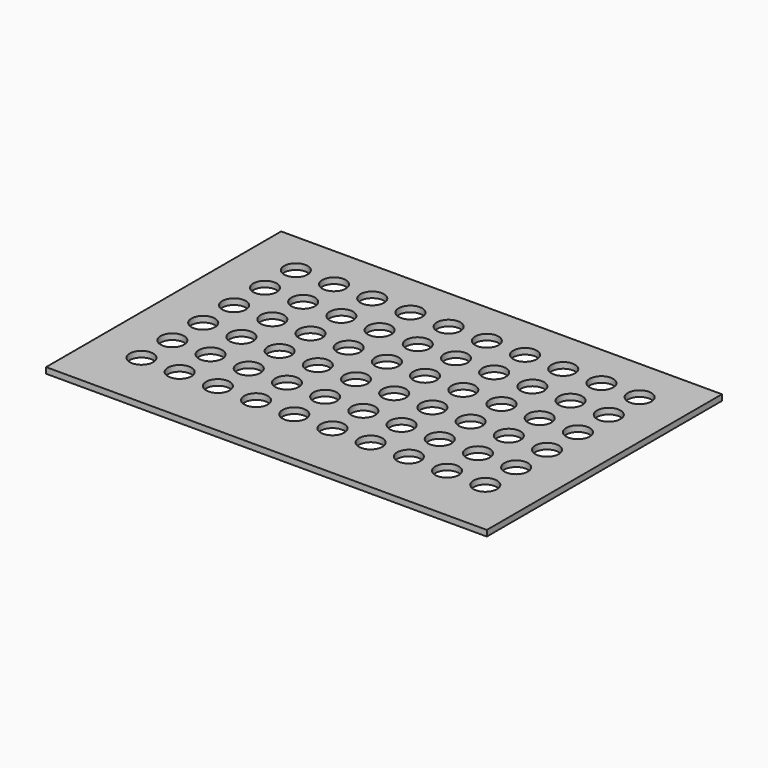
from build123d import *

# Parameters (mm, degrees)
F0_W     = 15
F0_H     = 10
F1_DEPTH = 0.2


with BuildPart() as f1:
    # F0 (on Top) → F1 (new body)
    with BuildSketch(Plane.XY):
        with Locations((7.5, -5)):
            Rectangle(F0_W, F0_H)
        with BuildLine():
            add(Edge.make_bspline(
                [(2.016517, -7.848093), (1.753789, -7.20702), (1.329968, -7.755086), (0.906147, -8.303151), (1.592696, -8.396158), (2.279245, -8.489165), (2.016517, -7.848093)],
                knots=[0, 0, 0, 2.094395, 2.094395, 4.18879, 4.18879, 6.283185, 6.283185, 6.283185], degree=2, weights=[1, 0.5, 1, 0.5, 1, 0.5, 1]))
        make_face(mode=Mode.SUBTRACT)
        with BuildLine():
            add(Edge.make_bspline(
                [(3.316517, -7.848093), (3.053789, -7.20702), (2.629968, -7.755086), (2.206147, -8.303151), (2.892696, -8.396158), (3.579245, -8.489165), (3.316517, -7.848093)],
                knots=[0, 0, 0, 2.094395, 2.094395, 4.18879, 4.18879, 6.283185, 6.283185, 6.283185], degree=2, weights=[1, 0.5, 1, 0.5, 1, 0.5, 1]))
        make_face(mode=Mode.SUBTRACT)
        with BuildLine():
            add(Edge.make_bspline(
                [(4.616517, -7.848093), (4.353789, -7.20702), (3.929968, -7.755086), (3.506147, -8.303151), (4.192696, -8.396158), (4.879245, -8.489165), (4.616517, -7.848093)],
                knots=[0, 0, 0, 2.094395, 2.094395, 4.18879, 4.18879, 6.283185, 6.283185, 6.283185], degree=2, weights=[1, 0.5, 1, 0.5, 1, 0.5, 1]))
        make_face(mode=Mode.SUBTRACT)
        with BuildLine():
            add(Edge.make_bspline(
                [(5.916517, -7.848093), (5.653789, -7.20702), (5.229968, -7.755086), (4.806147, -8.303151), (5.492696, -8.396158), (6.179245, -8.489165), (5.916517, -7.848093)],
                knots=[0, 0, 0, 2.094395, 2.094395, 4.18879, 4.18879, 6.283185, 6.283185, 6.283185], degree=2, weights=[1, 0.5, 1, 0.5, 1, 0.5, 1]))
        make_face(mode=Mode.SUBTRACT)
        with BuildLine():
            add(Edge.make_bspline(
                [(7.216517, -7.848093), (6.953789, -7.20702), (6.529968, -7.755086), (6.106147, -8.303151), (6.792696, -8.396158), (7.479245, -8.489165), (7.216517, -7.848093)],
                knots=[0, 0, 0, 2.094395, 2.094395, 4.18879, 4.18879, 6.283185, 6.283185, 6.283185], degree=2, weights=[1, 0.5, 1, 0.5, 1, 0.5, 1]))
        make_face(mode=Mode.SUBTRACT)
        with BuildLine():
            add(Edge.make_bspline(
                [(2.027238, -6.548137), (1.76451, -5.907065), (1.340689, -6.45513), (0.916868, -7.003195), (1.603417, -7.096202), (2.289966, -7.189209), (2.027238, -6.548137)],
                knots=[0, 0, 0, 2.094395, 2.094395, 4.18879, 4.18879, 6.283185, 6.283185, 6.283185], degree=2, weights=[1, 0.5, 1, 0.5, 1, 0.5, 1]))
        make_face(mode=Mode.SUBTRACT)
        with BuildLine():
            add(Edge.make_bspline(
                [(3.327238, -6.548137), (3.06451, -5.907065), (2.640689, -6.45513), (2.216868, -7.003195), (2.903417, -7.096202), (3.589966, -7.189209), (3.327238, -6.548137)],
                knots=[0, 0, 0, 2.094395, 2.094395, 4.18879, 4.18879, 6.283185, 6.283185, 6.283185], degree=2, weights=[1, 0.5, 1, 0.5, 1, 0.5, 1]))
        make_face(mode=Mode.SUBTRACT)
        with BuildLine():
            add(Edge.make_bspline(
                [(2.03796, -5.248181), (1.775231, -4.607109), (1.35141, -5.155174), (0.927589, -5.70324), (1.614139, -5.796247), (2.300688, -5.889254), (2.03796, -5.248181)],
                knots=[0, 0, 0, 2.094395, 2.094395, 4.18879, 4.18879, 6.283185, 6.283185, 6.283185], degree=2, weights=[1, 0.5, 1, 0.5, 1, 0.5, 1]))
        make_face(mode=Mode.SUBTRACT)
        with BuildLine():
            add(Edge.make_bspline(
                [(3.33796, -5.248181), (3.075231, -4.607109), (2.65141, -5.155174), (2.227589, -5.70324), (2.914139, -5.796247), (3.600688, -5.889254), (3.33796, -5.248181)],
                knots=[0, 0, 0, 2.094395, 2.094395, 4.18879, 4.18879, 6.283185, 6.283185, 6.283185], degree=2, weights=[1, 0.5, 1, 0.5, 1, 0.5, 1]))
        make_face(mode=Mode.SUBTRACT)
        with BuildLine():
            add(Edge.make_bspline(
                [(4.627238, -6.548137), (4.36451, -5.907065), (3.940689, -6.45513), (3.516868, -7.003195), (4.203417, -7.096202), (4.889966, -7.189209), (4.627238, -6.548137)],
                knots=[0, 0, 0, 2.094395, 2.094395, 4.18879, 4.18879, 6.283185, 6.283185, 6.283185], degree=2, weights=[1, 0.5, 1, 0.5, 1, 0.5, 1]))
        make_face(mode=Mode.SUBTRACT)
        with BuildLine():
            add(Edge.make_bspline(
                [(5.927238, -6.548137), (5.66451, -5.907065), (5.240689, -6.45513), (4.816868, -7.003195), (5.503417, -7.096202), (6.189966, -7.189209), (5.927238, -6.548137)],
                knots=[0, 0, 0, 2.094395, 2.094395, 4.18879, 4.18879, 6.283185, 6.283185, 6.283185], degree=2, weights=[1, 0.5, 1, 0.5, 1, 0.5, 1]))
        make_face(mode=Mode.SUBTRACT)
        with BuildLine():
            add(Edge.make_bspline(
                [(7.227238, -6.548137), (6.96451, -5.907065), (6.540689, -6.45513), (6.116868, -7.003195), (6.803417, -7.096202), (7.489966, -7.189209), (7.227238, -6.548137)],
                knots=[0, 0, 0, 2.094395, 2.094395, 4.18879, 4.18879, 6.283185, 6.283185, 6.283185], degree=2, weights=[1, 0.5, 1, 0.5, 1, 0.5, 1]))
        make_face(mode=Mode.SUBTRACT)
        with BuildLine():
            add(Edge.make_bspline(
                [(4.63796, -5.248181), (4.375231, -4.607109), (3.95141, -5.155174), (3.527589, -5.70324), (4.214139, -5.796247), (4.900688, -5.889254), (4.63796, -5.248181)],
                knots=[0, 0, 0, 2.094395, 2.094395, 4.18879, 4.18879, 6.283185, 6.283185, 6.283185], degree=2, weights=[1, 0.5, 1, 0.5, 1, 0.5, 1]))
        make_face(mode=Mode.SUBTRACT)
        with BuildLine():
            add(Edge.make_bspline(
                [(5.93796, -5.248181), (5.675231, -4.607109), (5.25141, -5.155174), (4.827589, -5.70324), (5.514139, -5.796247), (6.200688, -5.889254), (5.93796, -5.248181)],
                knots=[0, 0, 0, 2.094395, 2.094395, 4.18879, 4.18879, 6.283185, 6.283185, 6.283185], degree=2, weights=[1, 0.5, 1, 0.5, 1, 0.5, 1]))
        make_face(mode=Mode.SUBTRACT)
        with BuildLine():
            add(Edge.make_bspline(
                [(7.23796, -5.248181), (6.975231, -4.607109), (6.55141, -5.155174), (6.127589, -5.70324), (6.814139, -5.796247), (7.500688, -5.889254), (7.23796, -5.248181)],
                knots=[0, 0, 0, 2.094395, 2.094395, 4.18879, 4.18879, 6.283185, 6.283185, 6.283185], degree=2, weights=[1, 0.5, 1, 0.5, 1, 0.5, 1]))
        make_face(mode=Mode.SUBTRACT)
        with BuildLine():
            add(Edge.make_bspline(
                [(8.516517, -7.848093), (8.253789, -7.20702), (7.829968, -7.755086), (7.406147, -8.303151), (8.092696, -8.396158), (8.779245, -8.489165), (8.516517, -7.848093)],
                knots=[0, 0, 0, 2.094395, 2.094395, 4.18879, 4.18879, 6.283185, 6.283185, 6.283185], degree=2, weights=[1, 0.5, 1, 0.5, 1, 0.5, 1]))
        make_face(mode=Mode.SUBTRACT)
        with BuildLine():
            add(Edge.make_bspline(
                [(9.816517, -7.848093), (9.553789, -7.20702), (9.129968, -7.755086), (8.706147, -8.303151), (9.392696, -8.396158), (10.079245, -8.489165), (9.816517, -7.848093)],
                knots=[0, 0, 0, 2.094395, 2.094395, 4.18879, 4.18879, 6.283185, 6.283185, 6.283185], degree=2, weights=[1, 0.5, 1, 0.5, 1, 0.5, 1]))
        make_face(mode=Mode.SUBTRACT)
        with BuildLine():
            add(Edge.make_bspline(
                [(11.116517, -7.848093), (10.853789, -7.20702), (10.429968, -7.755086), (10.006147, -8.303151), (10.692696, -8.396158), (11.379245, -8.489165), (11.116517, -7.848093)],
                knots=[0, 0, 0, 2.094395, 2.094395, 4.18879, 4.18879, 6.283185, 6.283185, 6.283185], degree=2, weights=[1, 0.5, 1, 0.5, 1, 0.5, 1]))
        make_face(mode=Mode.SUBTRACT)
        with BuildLine():
            add(Edge.make_bspline(
                [(12.416517, -7.848093), (12.153789, -7.20702), (11.729968, -7.755086), (11.306147, -8.303151), (11.992696, -8.396158), (12.679245, -8.489165), (12.416517, -7.848093)],
                knots=[0, 0, 0, 2.094395, 2.094395, 4.18879, 4.18879, 6.283185, 6.283185, 6.283185], degree=2, weights=[1, 0.5, 1, 0.5, 1, 0.5, 1]))
        make_face(mode=Mode.SUBTRACT)
        with BuildLine():
            add(Edge.make_bspline(
                [(13.716517, -7.848093), (13.453789, -7.20702), (13.029968, -7.755086), (12.606147, -8.303151), (13.292696, -8.396158), (13.979245, -8.489165), (13.716517, -7.848093)],
                knots=[0, 0, 0, 2.094395, 2.094395, 4.18879, 4.18879, 6.283185, 6.283185, 6.283185], degree=2, weights=[1, 0.5, 1, 0.5, 1, 0.5, 1]))
        make_face(mode=Mode.SUBTRACT)
        with BuildLine():
            add(Edge.make_bspline(
                [(8.527238, -6.548137), (8.26451, -5.907065), (7.840689, -6.45513), (7.416868, -7.003195), (8.103417, -7.096202), (8.789966, -7.189209), (8.527238, -6.548137)],
                knots=[0, 0, 0, 2.094395, 2.094395, 4.18879, 4.18879, 6.283185, 6.283185, 6.283185], degree=2, weights=[1, 0.5, 1, 0.5, 1, 0.5, 1]))
        make_face(mode=Mode.SUBTRACT)
        with BuildLine():
            add(Edge.make_bspline(
                [(9.827238, -6.548137), (9.56451, -5.907065), (9.140689, -6.45513), (8.716868, -7.003195), (9.403417, -7.096202), (10.089966, -7.189209), (9.827238, -6.548137)],
                knots=[0, 0, 0, 2.094395, 2.094395, 4.18879, 4.18879, 6.283185, 6.283185, 6.283185], degree=2, weights=[1, 0.5, 1, 0.5, 1, 0.5, 1]))
        make_face(mode=Mode.SUBTRACT)
        with BuildLine():
            add(Edge.make_bspline(
                [(11.127238, -6.548137), (10.86451, -5.907065), (10.440689, -6.45513), (10.016868, -7.003195), (10.703417, -7.096202), (11.389966, -7.189209), (11.127238, -6.548137)],
                knots=[0, 0, 0, 2.094395, 2.094395, 4.18879, 4.18879, 6.283185, 6.283185, 6.283185], degree=2, weights=[1, 0.5, 1, 0.5, 1, 0.5, 1]))
        make_face(mode=Mode.SUBTRACT)
        with BuildLine():
            add(Edge.make_bspline(
                [(8.53796, -5.248181), (8.275231, -4.607109), (7.85141, -5.155174), (7.427589, -5.70324), (8.114139, -5.796247), (8.800688, -5.889254), (8.53796, -5.248181)],
                knots=[0, 0, 0, 2.094395, 2.094395, 4.18879, 4.18879, 6.283185, 6.283185, 6.283185], degree=2, weights=[1, 0.5, 1, 0.5, 1, 0.5, 1]))
        make_face(mode=Mode.SUBTRACT)
        with BuildLine():
            add(Edge.make_bspline(
                [(9.83796, -5.248181), (9.575231, -4.607109), (9.15141, -5.155174), (8.727589, -5.70324), (9.414139, -5.796247), (10.100688, -5.889254), (9.83796, -5.248181)],
                knots=[0, 0, 0, 2.094395, 2.094395, 4.18879, 4.18879, 6.283185, 6.283185, 6.283185], degree=2, weights=[1, 0.5, 1, 0.5, 1, 0.5, 1]))
        make_face(mode=Mode.SUBTRACT)
        with BuildLine():
            add(Edge.make_bspline(
                [(11.13796, -5.248181), (10.875231, -4.607109), (10.45141, -5.155174), (10.027589, -5.70324), (10.714139, -5.796247), (11.400688, -5.889254), (11.13796, -5.248181)],
                knots=[0, 0, 0, 2.094395, 2.094395, 4.18879, 4.18879, 6.283185, 6.283185, 6.283185], degree=2, weights=[1, 0.5, 1, 0.5, 1, 0.5, 1]))
        make_face(mode=Mode.SUBTRACT)
        with BuildLine():
            add(Edge.make_bspline(
                [(12.427238, -6.548137), (12.16451, -5.907065), (11.740689, -6.45513), (11.316868, -7.003195), (12.003417, -7.096202), (12.689966, -7.189209), (12.427238, -6.548137)],
                knots=[0, 0, 0, 2.094395, 2.094395, 4.18879, 4.18879, 6.283185, 6.283185, 6.283185], degree=2, weights=[1, 0.5, 1, 0.5, 1, 0.5, 1]))
        make_face(mode=Mode.SUBTRACT)
        with BuildLine():
            add(Edge.make_bspline(
                [(13.727238, -6.548137), (13.46451, -5.907065), (13.040689, -6.45513), (12.616868, -7.003195), (13.303417, -7.096202), (13.989966, -7.189209), (13.727238, -6.548137)],
                knots=[0, 0, 0, 2.094395, 2.094395, 4.18879, 4.18879, 6.283185, 6.283185, 6.283185], degree=2, weights=[1, 0.5, 1, 0.5, 1, 0.5, 1]))
        make_face(mode=Mode.SUBTRACT)
        with BuildLine():
            add(Edge.make_bspline(
                [(12.43796, -5.248181), (12.175231, -4.607109), (11.75141, -5.155174), (11.327589, -5.70324), (12.014139, -5.796247), (12.700688, -5.889254), (12.43796, -5.248181)],
                knots=[0, 0, 0, 2.094395, 2.094395, 4.18879, 4.18879, 6.283185, 6.283185, 6.283185], degree=2, weights=[1, 0.5, 1, 0.5, 1, 0.5, 1]))
        make_face(mode=Mode.SUBTRACT)
        with BuildLine():
            add(Edge.make_bspline(
                [(13.73796, -5.248181), (13.475231, -4.607109), (13.05141, -5.155174), (12.627589, -5.70324), (13.314139, -5.796247), (14.000688, -5.889254), (13.73796, -5.248181)],
                knots=[0, 0, 0, 2.094395, 2.094395, 4.18879, 4.18879, 6.283185, 6.283185, 6.283185], degree=2, weights=[1, 0.5, 1, 0.5, 1, 0.5, 1]))
        make_face(mode=Mode.SUBTRACT)
        with BuildLine():
            add(Edge.make_bspline(
                [(2.048681, -3.948225), (1.785953, -3.307153), (1.362132, -3.855218), (0.938311, -4.403284), (1.62486, -4.496291), (2.311409, -4.589298), (2.048681, -3.948225)],
                knots=[0, 0, 0, 2.094395, 2.094395, 4.18879, 4.18879, 6.283185, 6.283185, 6.283185], degree=2, weights=[1, 0.5, 1, 0.5, 1, 0.5, 1]))
        make_face(mode=Mode.SUBTRACT)
        with BuildLine():
            add(Edge.make_bspline(
                [(3.348681, -3.948225), (3.085953, -3.307153), (2.662132, -3.855218), (2.238311, -4.403284), (2.92486, -4.496291), (3.611409, -4.589298), (3.348681, -3.948225)],
                knots=[0, 0, 0, 2.094395, 2.094395, 4.18879, 4.18879, 6.283185, 6.283185, 6.283185], degree=2, weights=[1, 0.5, 1, 0.5, 1, 0.5, 1]))
        make_face(mode=Mode.SUBTRACT)
        with BuildLine():
            add(Edge.make_bspline(
                [(2.059402, -2.64827), (1.796674, -2.007197), (1.372853, -2.555263), (0.949032, -3.103328), (1.635581, -3.196335), (2.32213, -3.289342), (2.059402, -2.64827)],
                knots=[0, 0, 0, 2.094395, 2.094395, 4.18879, 4.18879, 6.283185, 6.283185, 6.283185], degree=2, weights=[1, 0.5, 1, 0.5, 1, 0.5, 1]))
        make_face(mode=Mode.SUBTRACT)
        with BuildLine():
            add(Edge.make_bspline(
                [(3.359402, -2.64827), (3.096674, -2.007197), (2.672853, -2.555263), (2.249032, -3.103328), (2.935581, -3.196335), (3.62213, -3.289342), (3.359402, -2.64827)],
                knots=[0, 0, 0, 2.094395, 2.094395, 4.18879, 4.18879, 6.283185, 6.283185, 6.283185], degree=2, weights=[1, 0.5, 1, 0.5, 1, 0.5, 1]))
        make_face(mode=Mode.SUBTRACT)
        with BuildLine():
            add(Edge.make_bspline(
                [(4.648681, -3.948225), (4.385953, -3.307153), (3.962132, -3.855218), (3.538311, -4.403284), (4.22486, -4.496291), (4.911409, -4.589298), (4.648681, -3.948225)],
                knots=[0, 0, 0, 2.094395, 2.094395, 4.18879, 4.18879, 6.283185, 6.283185, 6.283185], degree=2, weights=[1, 0.5, 1, 0.5, 1, 0.5, 1]))
        make_face(mode=Mode.SUBTRACT)
        with BuildLine():
            add(Edge.make_bspline(
                [(5.948681, -3.948225), (5.685953, -3.307153), (5.262132, -3.855218), (4.838311, -4.403284), (5.52486, -4.496291), (6.211409, -4.589298), (5.948681, -3.948225)],
                knots=[0, 0, 0, 2.094395, 2.094395, 4.18879, 4.18879, 6.283185, 6.283185, 6.283185], degree=2, weights=[1, 0.5, 1, 0.5, 1, 0.5, 1]))
        make_face(mode=Mode.SUBTRACT)
        with BuildLine():
            add(Edge.make_bspline(
                [(7.248681, -3.948225), (6.985953, -3.307153), (6.562132, -3.855218), (6.138311, -4.403284), (6.82486, -4.496291), (7.511409, -4.589298), (7.248681, -3.948225)],
                knots=[0, 0, 0, 2.094395, 2.094395, 4.18879, 4.18879, 6.283185, 6.283185, 6.283185], degree=2, weights=[1, 0.5, 1, 0.5, 1, 0.5, 1]))
        make_face(mode=Mode.SUBTRACT)
        with BuildLine():
            add(Edge.make_bspline(
                [(4.659402, -2.64827), (4.396674, -2.007197), (3.972853, -2.555263), (3.549032, -3.103328), (4.235581, -3.196335), (4.92213, -3.289342), (4.659402, -2.64827)],
                knots=[0, 0, 0, 2.094395, 2.094395, 4.18879, 4.18879, 6.283185, 6.283185, 6.283185], degree=2, weights=[1, 0.5, 1, 0.5, 1, 0.5, 1]))
        make_face(mode=Mode.SUBTRACT)
        with BuildLine():
            add(Edge.make_bspline(
                [(5.959402, -2.64827), (5.696674, -2.007197), (5.272853, -2.555263), (4.849032, -3.103328), (5.535581, -3.196335), (6.22213, -3.289342), (5.959402, -2.64827)],
                knots=[0, 0, 0, 2.094395, 2.094395, 4.18879, 4.18879, 6.283185, 6.283185, 6.283185], degree=2, weights=[1, 0.5, 1, 0.5, 1, 0.5, 1]))
        make_face(mode=Mode.SUBTRACT)
        with BuildLine():
            add(Edge.make_bspline(
                [(7.259402, -2.64827), (6.996674, -2.007197), (6.572853, -2.555263), (6.149032, -3.103328), (6.835581, -3.196335), (7.52213, -3.289342), (7.259402, -2.64827)],
                knots=[0, 0, 0, 2.094395, 2.094395, 4.18879, 4.18879, 6.283185, 6.283185, 6.283185], degree=2, weights=[1, 0.5, 1, 0.5, 1, 0.5, 1]))
        make_face(mode=Mode.SUBTRACT)
        with BuildLine():
            add(Edge.make_bspline(
                [(2.070123, -1.348314), (1.807395, -0.707241), (1.383574, -1.255307), (0.959753, -1.803372), (1.646302, -1.896379), (2.332852, -1.989386), (2.070123, -1.348314)],
                knots=[0, 0, 0, 2.094395, 2.094395, 4.18879, 4.18879, 6.283185, 6.283185, 6.283185], degree=2, weights=[1, 0.5, 1, 0.5, 1, 0.5, 1]))
        make_face(mode=Mode.SUBTRACT)
        with BuildLine():
            add(Edge.make_bspline(
                [(3.370123, -1.348314), (3.107395, -0.707241), (2.683574, -1.255307), (2.259753, -1.803372), (2.946302, -1.896379), (3.632852, -1.989386), (3.370123, -1.348314)],
                knots=[0, 0, 0, 2.094395, 2.094395, 4.18879, 4.18879, 6.283185, 6.283185, 6.283185], degree=2, weights=[1, 0.5, 1, 0.5, 1, 0.5, 1]))
        make_face(mode=Mode.SUBTRACT)
        with BuildLine():
            add(Edge.make_bspline(
                [(4.670123, -1.348314), (4.407395, -0.707241), (3.983574, -1.255307), (3.559753, -1.803372), (4.246302, -1.896379), (4.932852, -1.989386), (4.670123, -1.348314)],
                knots=[0, 0, 0, 2.094395, 2.094395, 4.18879, 4.18879, 6.283185, 6.283185, 6.283185], degree=2, weights=[1, 0.5, 1, 0.5, 1, 0.5, 1]))
        make_face(mode=Mode.SUBTRACT)
        with BuildLine():
            add(Edge.make_bspline(
                [(5.970123, -1.348314), (5.707395, -0.707241), (5.283574, -1.255307), (4.859753, -1.803372), (5.546302, -1.896379), (6.232852, -1.989386), (5.970123, -1.348314)],
                knots=[0, 0, 0, 2.094395, 2.094395, 4.18879, 4.18879, 6.283185, 6.283185, 6.283185], degree=2, weights=[1, 0.5, 1, 0.5, 1, 0.5, 1]))
        make_face(mode=Mode.SUBTRACT)
        with BuildLine():
            add(Edge.make_bspline(
                [(7.270123, -1.348314), (7.007395, -0.707241), (6.583574, -1.255307), (6.159753, -1.803372), (6.846302, -1.896379), (7.532852, -1.989386), (7.270123, -1.348314)],
                knots=[0, 0, 0, 2.094395, 2.094395, 4.18879, 4.18879, 6.283185, 6.283185, 6.283185], degree=2, weights=[1, 0.5, 1, 0.5, 1, 0.5, 1]))
        make_face(mode=Mode.SUBTRACT)
        with BuildLine():
            add(Edge.make_bspline(
                [(8.548681, -3.948225), (8.285953, -3.307153), (7.862132, -3.855218), (7.438311, -4.403284), (8.12486, -4.496291), (8.811409, -4.589298), (8.548681, -3.948225)],
                knots=[0, 0, 0, 2.094395, 2.094395, 4.18879, 4.18879, 6.283185, 6.283185, 6.283185], degree=2, weights=[1, 0.5, 1, 0.5, 1, 0.5, 1]))
        make_face(mode=Mode.SUBTRACT)
        with BuildLine():
            add(Edge.make_bspline(
                [(9.848681, -3.948225), (9.585953, -3.307153), (9.162132, -3.855218), (8.738311, -4.403284), (9.42486, -4.496291), (10.111409, -4.589298), (9.848681, -3.948225)],
                knots=[0, 0, 0, 2.094395, 2.094395, 4.18879, 4.18879, 6.283185, 6.283185, 6.283185], degree=2, weights=[1, 0.5, 1, 0.5, 1, 0.5, 1]))
        make_face(mode=Mode.SUBTRACT)
        with BuildLine():
            add(Edge.make_bspline(
                [(11.148681, -3.948225), (10.885953, -3.307153), (10.462132, -3.855218), (10.038311, -4.403284), (10.72486, -4.496291), (11.411409, -4.589298), (11.148681, -3.948225)],
                knots=[0, 0, 0, 2.094395, 2.094395, 4.18879, 4.18879, 6.283185, 6.283185, 6.283185], degree=2, weights=[1, 0.5, 1, 0.5, 1, 0.5, 1]))
        make_face(mode=Mode.SUBTRACT)
        with BuildLine():
            add(Edge.make_bspline(
                [(8.559402, -2.64827), (8.296674, -2.007197), (7.872853, -2.555263), (7.449032, -3.103328), (8.135581, -3.196335), (8.82213, -3.289342), (8.559402, -2.64827)],
                knots=[0, 0, 0, 2.094395, 2.094395, 4.18879, 4.18879, 6.283185, 6.283185, 6.283185], degree=2, weights=[1, 0.5, 1, 0.5, 1, 0.5, 1]))
        make_face(mode=Mode.SUBTRACT)
        with BuildLine():
            add(Edge.make_bspline(
                [(9.859402, -2.64827), (9.596674, -2.007197), (9.172853, -2.555263), (8.749032, -3.103328), (9.435581, -3.196335), (10.12213, -3.289342), (9.859402, -2.64827)],
                knots=[0, 0, 0, 2.094395, 2.094395, 4.18879, 4.18879, 6.283185, 6.283185, 6.283185], degree=2, weights=[1, 0.5, 1, 0.5, 1, 0.5, 1]))
        make_face(mode=Mode.SUBTRACT)
        with BuildLine():
            add(Edge.make_bspline(
                [(11.159402, -2.64827), (10.896674, -2.007197), (10.472853, -2.555263), (10.049032, -3.103328), (10.735581, -3.196335), (11.42213, -3.289342), (11.159402, -2.64827)],
                knots=[0, 0, 0, 2.094395, 2.094395, 4.18879, 4.18879, 6.283185, 6.283185, 6.283185], degree=2, weights=[1, 0.5, 1, 0.5, 1, 0.5, 1]))
        make_face(mode=Mode.SUBTRACT)
        with BuildLine():
            add(Edge.make_bspline(
                [(12.448681, -3.948225), (12.185953, -3.307153), (11.762132, -3.855218), (11.338311, -4.403284), (12.02486, -4.496291), (12.711409, -4.589298), (12.448681, -3.948225)],
                knots=[0, 0, 0, 2.094395, 2.094395, 4.18879, 4.18879, 6.283185, 6.283185, 6.283185], degree=2, weights=[1, 0.5, 1, 0.5, 1, 0.5, 1]))
        make_face(mode=Mode.SUBTRACT)
        with BuildLine():
            add(Edge.make_bspline(
                [(13.748681, -3.948225), (13.485953, -3.307153), (13.062132, -3.855218), (12.638311, -4.403284), (13.32486, -4.496291), (14.011409, -4.589298), (13.748681, -3.948225)],
                knots=[0, 0, 0, 2.094395, 2.094395, 4.18879, 4.18879, 6.283185, 6.283185, 6.283185], degree=2, weights=[1, 0.5, 1, 0.5, 1, 0.5, 1]))
        make_face(mode=Mode.SUBTRACT)
        with BuildLine():
            add(Edge.make_bspline(
                [(12.459402, -2.64827), (12.196674, -2.007197), (11.772853, -2.555263), (11.349032, -3.103328), (12.035581, -3.196335), (12.72213, -3.289342), (12.459402, -2.64827)],
                knots=[0, 0, 0, 2.094395, 2.094395, 4.18879, 4.18879, 6.283185, 6.283185, 6.283185], degree=2, weights=[1, 0.5, 1, 0.5, 1, 0.5, 1]))
        make_face(mode=Mode.SUBTRACT)
        with BuildLine():
            add(Edge.make_bspline(
                [(13.759402, -2.64827), (13.496674, -2.007197), (13.072853, -2.555263), (12.649032, -3.103328), (13.335581, -3.196335), (14.02213, -3.289342), (13.759402, -2.64827)],
                knots=[0, 0, 0, 2.094395, 2.094395, 4.18879, 4.18879, 6.283185, 6.283185, 6.283185], degree=2, weights=[1, 0.5, 1, 0.5, 1, 0.5, 1]))
        make_face(mode=Mode.SUBTRACT)
        with BuildLine():
            add(Edge.make_bspline(
                [(8.570123, -1.348314), (8.307395, -0.707241), (7.883574, -1.255307), (7.459753, -1.803372), (8.146302, -1.896379), (8.832852, -1.989386), (8.570123, -1.348314)],
                knots=[0, 0, 0, 2.094395, 2.094395, 4.18879, 4.18879, 6.283185, 6.283185, 6.283185], degree=2, weights=[1, 0.5, 1, 0.5, 1, 0.5, 1]))
        make_face(mode=Mode.SUBTRACT)
        with BuildLine():
            add(Edge.make_bspline(
                [(9.870123, -1.348314), (9.607395, -0.707241), (9.183574, -1.255307), (8.759753, -1.803372), (9.446302, -1.896379), (10.132852, -1.989386), (9.870123, -1.348314)],
                knots=[0, 0, 0, 2.094395, 2.094395, 4.18879, 4.18879, 6.283185, 6.283185, 6.283185], degree=2, weights=[1, 0.5, 1, 0.5, 1, 0.5, 1]))
        make_face(mode=Mode.SUBTRACT)
        with BuildLine():
            add(Edge.make_bspline(
                [(11.170123, -1.348314), (10.907395, -0.707241), (10.483574, -1.255307), (10.059753, -1.803372), (10.746302, -1.896379), (11.432852, -1.989386), (11.170123, -1.348314)],
                knots=[0, 0, 0, 2.094395, 2.094395, 4.18879, 4.18879, 6.283185, 6.283185, 6.283185], degree=2, weights=[1, 0.5, 1, 0.5, 1, 0.5, 1]))
        make_face(mode=Mode.SUBTRACT)
        with BuildLine():
            add(Edge.make_bspline(
                [(12.470123, -1.348314), (12.207395, -0.707241), (11.783574, -1.255307), (11.359753, -1.803372), (12.046302, -1.896379), (12.732852, -1.989386), (12.470123, -1.348314)],
                knots=[0, 0, 0, 2.094395, 2.094395, 4.18879, 4.18879, 6.283185, 6.283185, 6.283185], degree=2, weights=[1, 0.5, 1, 0.5, 1, 0.5, 1]))
        make_face(mode=Mode.SUBTRACT)
        with BuildLine():
            add(Edge.make_bspline(
                [(13.770123, -1.348314), (13.507395, -0.707241), (13.083574, -1.255307), (12.659753, -1.803372), (13.346302, -1.896379), (14.032852, -1.989386), (13.770123, -1.348314)],
                knots=[0, 0, 0, 2.094395, 2.094395, 4.18879, 4.18879, 6.283185, 6.283185, 6.283185], degree=2, weights=[1, 0.5, 1, 0.5, 1, 0.5, 1]))
        make_face(mode=Mode.SUBTRACT)
    extrude(amount=F1_DEPTH)


solid = f1.part
